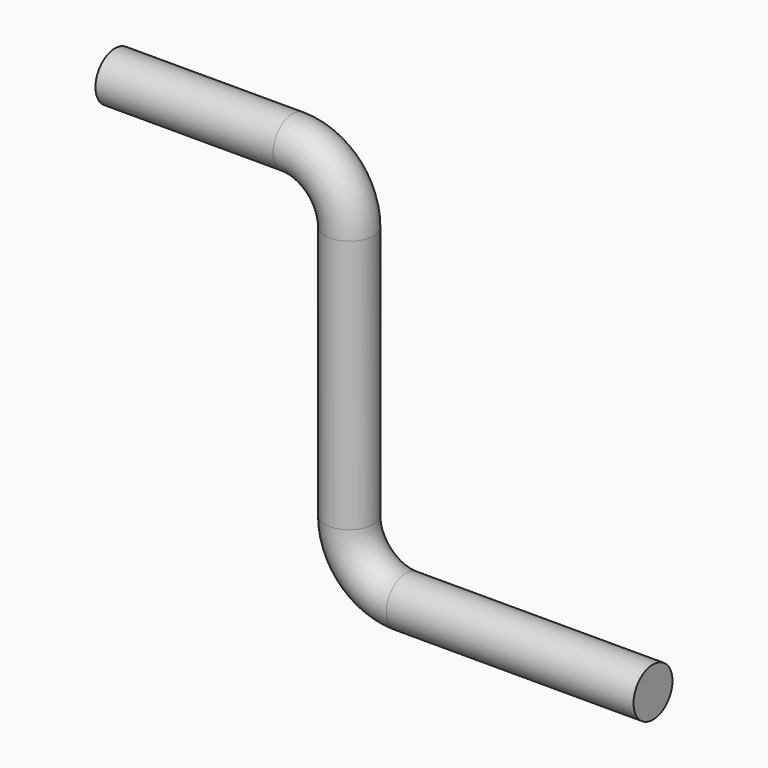
from build123d import *

# Parameters (mm, degrees)
F0_R = 10.915594


with BuildPart() as f2:
    # F2: sweep along a path in F1
    with BuildLine(Plane.XZ) as f2_path:
        Line((0, 0), (-110.754612, 0))
        ThreePointArc((-110.754612, 0), (-128.715125, 7.439488), (-136.154612, 25.4))
        Line((-136.154612, 25.4), (-136.154612, 139.267394))
        ThreePointArc((-136.154612, 139.267394), (-143.5941, 157.227906), (-161.554612, 164.667394))
        Line((-161.554612, 164.667394), (-241.116758, 164.667394))
    # F0 (on Right) → F2 (sweep)
    with BuildSketch(Plane.YZ):
        Circle(F0_R)
    sweep(path=f2_path.line)


solid = f2.part
